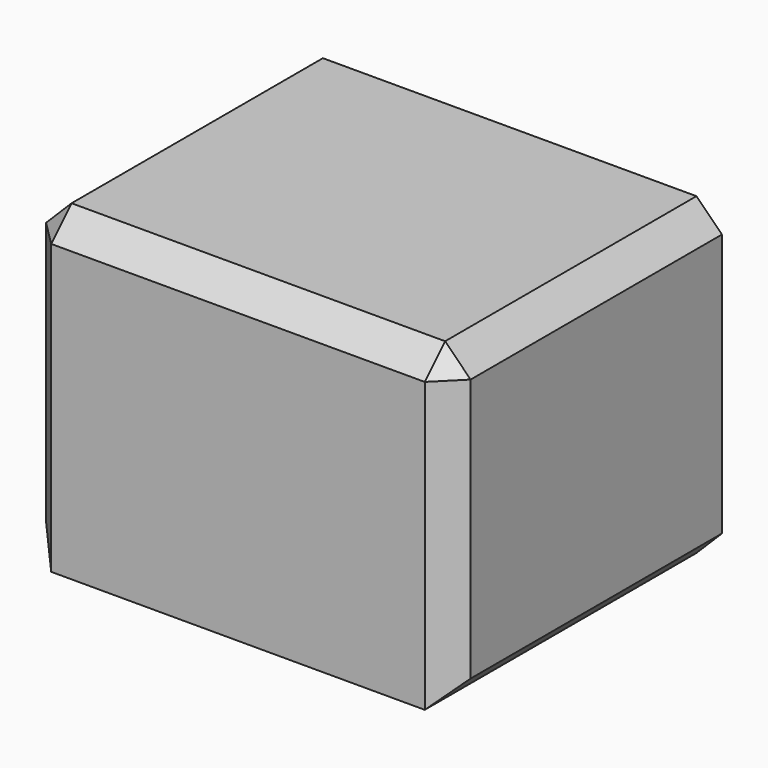
from build123d import *

# Parameters (mm, degrees)
F0_W     = 500
F0_H     = 350
F0_H_2   = 50
F1_DEPTH = 370
F2_SIZE  = 30


with BuildPart() as f1:
    # F0 (on Top) → F1 (new body)
    with BuildSketch(Plane.XY):
        with Locations((0, -25)):
            Rectangle(F0_W, F0_H)
        with Locations((0, 175)):
            Rectangle(F0_W, F0_H_2)
    extrude(amount=F1_DEPTH)

    # F2
    f2_edges = [f1.edges().sort_by_distance(p)[0] for p in [
        (-250, 0, 370),
        (0, -200, 370),
        (250, 0, 370),
        (-250, -200, 185),
        (250, -200, 185),
        (250, 0, 0),
        (-250, 0, 0),
    ]]
    chamfer(f2_edges, length=F2_SIZE)


solid = f1.part
